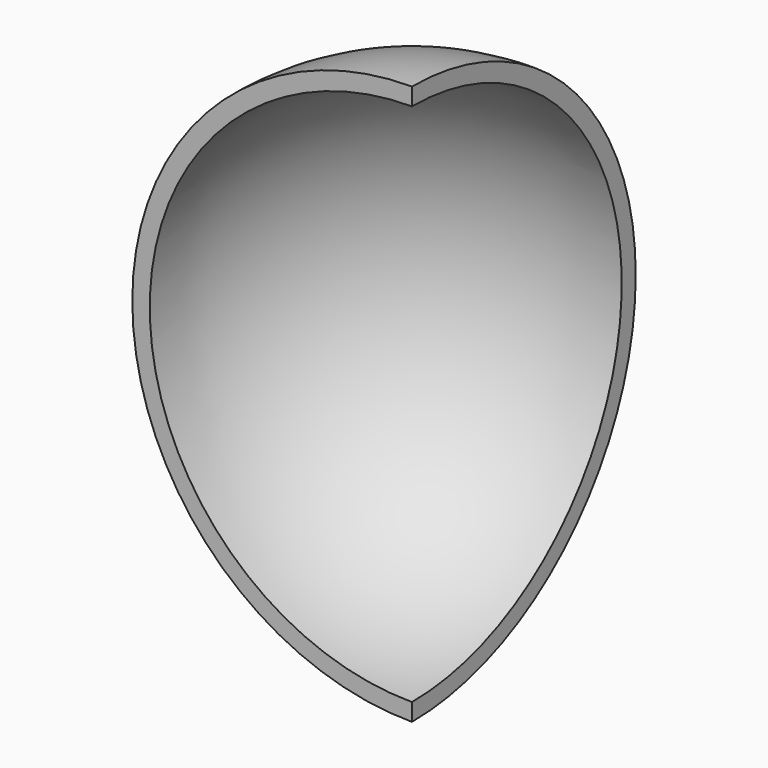
from build123d import *

# Parameters (mm, degrees)
SPHERE001_ANGLE           = 90
SPHERE001_PLACEMENT_ANGLE = 90
SPHERE_ANGLE              = 90
SPHERE_PLACEMENT_ANGLE    = 90


with BuildPart() as sphere001:
    # Sphere001 → Sphere001 (revolve)
    with BuildSketch(Plane.XZ):
        with BuildLine():
            ThreePointArc((0, -750), (750, 0), (0, 750))
            Line((0, 750), (0, -750))
        make_face()
    revolve(axis=Axis((0, 0, 0), (0, 0, 1)), revolution_arc=SPHERE001_ANGLE)


with BuildPart() as sphere001_1:
    # Sphere001 placement: moved
    add(sphere001.part.rotate(Axis((0, 0, 0), (0, 0, 1)), SPHERE001_PLACEMENT_ANGLE))


with BuildPart() as cut:
    # Sphere → Sphere (revolve)
    with BuildSketch(Plane.XZ):
        with BuildLine():
            ThreePointArc((0, -800), (800, 0), (0, 800))
            Line((0, 800), (0, -800))
        make_face()
    revolve(axis=Axis((0, 0, 0), (0, 0, 1)), revolution_arc=SPHERE_ANGLE)


with BuildPart() as cut_1:
    # Sphere placement: moved
    add(cut.part.rotate(Axis((0, 0, 0), (0, 0, 1)), SPHERE_PLACEMENT_ANGLE))

    # Cut: cut Sphere001
    add(sphere001_1.part, mode=Mode.SUBTRACT)


solid = cut_1.part
